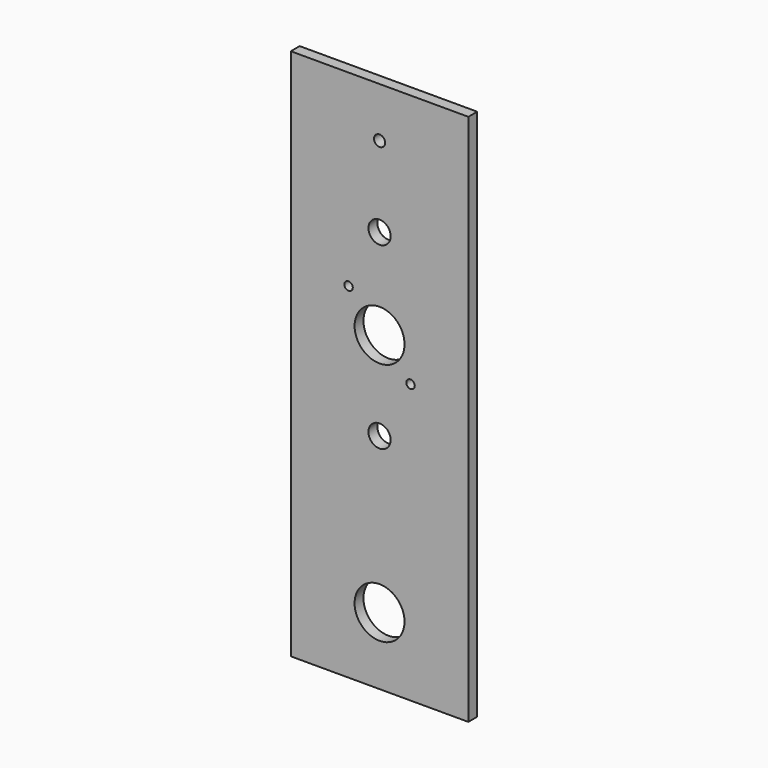
from build123d import *

# Parameters (mm, degrees)
F0_W      = 101.6
F0_H      = 304.8
F1_DEPTH  = 6.35
F2_R      = 3.175
F3_DEPTH  = 6.35
F4_R      = 14.2875
F5_DEPTH  = 6.35
F6_R      = 14.2875
F7_DEPTH  = 6.35
F8_R      = 2.413
F9_DEPTH  = 6.35
F10_R     = 6.35
F11_DEPTH = 6.35


with BuildPart() as f1:
    # F0 (on Front) → F1 (new body)
    with BuildSketch(Plane.XZ):
        with Locations((102.01661, 91.336442)):
            Rectangle(F0_W, F0_H)
    extrude(amount=F1_DEPTH)

    # F2 (on face) → F3 (cut)
    with BuildSketch(Plane.XZ.offset(6.35)):
        with Locations((102.01661, 215.161442)):
            Circle(F2_R)
    extrude(amount=-F3_DEPTH, mode=Mode.SUBTRACT)

    # F4 (on face) → F5 (cut)
    with BuildSketch(Plane(origin=(0, 0, 0), x_dir=(-1, 0, 0), z_dir=(0, 1, 0))):
        with Locations((-102.01661, -22.455558)):
            Circle(F4_R)
    extrude(amount=-F5_DEPTH, mode=Mode.SUBTRACT)

    # F6 (on face) → F7 (cut)
    with BuildSketch(Plane(origin=(0, 0, 0), x_dir=(-1, 0, 0), z_dir=(0, 1, 0))):
        with Locations((-102.01661, 117.244442)):
            Circle(F6_R)
    extrude(amount=-F7_DEPTH, mode=Mode.SUBTRACT)

    # F8 (on face) → F9 (cut)
    with BuildSketch(Plane(origin=(0, 0, 0), x_dir=(-1, 0, 0), z_dir=(0, 1, 0))):
        with Locations((-84.28741, 136.192842)):
            Circle(F8_R)
        with Locations((-119.74581, 98.296042)):
            Circle(F8_R)
    extrude(amount=-F9_DEPTH, mode=Mode.SUBTRACT)

    # F10 (on face) → F11 (cut)
    with BuildSketch(Plane(origin=(0, 0, 0), x_dir=(-1, 0, 0), z_dir=(0, 1, 0))):
        with Locations((-102.01661, 66.444442)):
            Circle(F10_R)
        with Locations((-102.01661, 169.095919)):
            Circle(F10_R)
    extrude(amount=-F11_DEPTH, mode=Mode.SUBTRACT)


solid = f1.part
